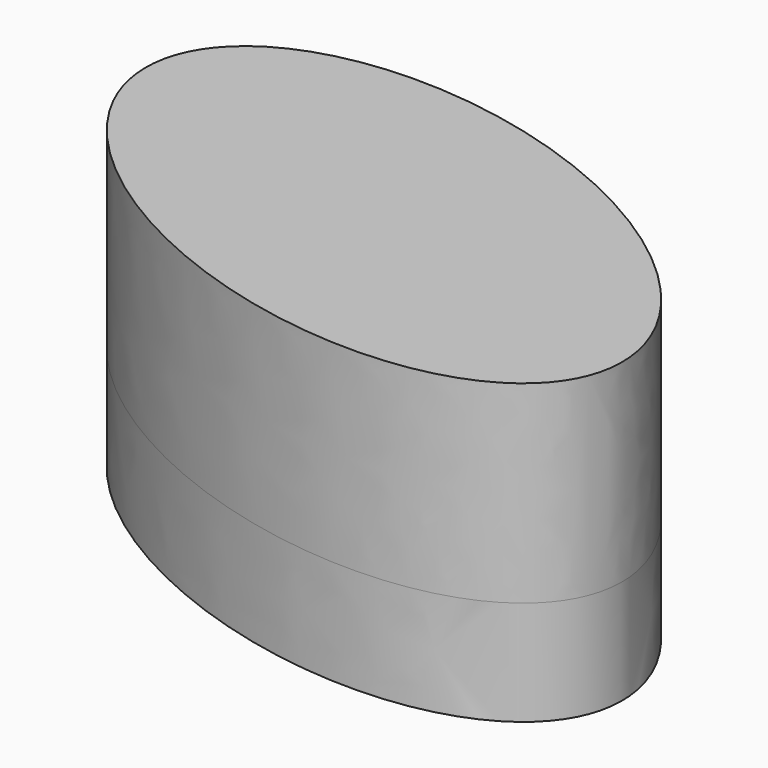
from build123d import *

# Parameters (mm, degrees)
F1_DEPTH = 25.4
F2_DEPTH = 46.99
F3_DEPTH = 51.816
F4_DEPTH = 65.278


with BuildPart() as f1:
    # F0 (on Top) → F1 (new body)
    with BuildSketch(Plane.XY):
        with BuildLine():
            add(Edge.make_bspline(
                [(71.5851932764, -27.3214224726), (96.97739757, 39.2090026506), (-23.0964944914, 46.9259237979), (-143.1703865528, 54.6428449452), (-48.488698785, -19.6045013253), (46.1929889828, -93.8518475958), (71.5851932764, -27.3214224726)],
                knots=[0, 0, 0, 2.0943951024, 2.0943951024, 4.1887902048, 4.1887902048, 6.2831853072, 6.2831853072, 6.2831853072], degree=2, weights=[1, 0.5, 1, 0.5, 1, 0.5, 1]))
        make_face()
    extrude(amount=F1_DEPTH)

    # F2 (add): a face of the model
    f2_faces = [f1.faces().sort_by_distance(p)[0] for p in [
        (0.3060236726, 0.090869864, 25.4),
    ]]
    extrude(f2_faces, amount=F2_DEPTH)

    # F3 (add): a face of the model
    f3_faces = [f1.faces().sort_by_distance(p)[0] for p in [
        (0.3060236726, 0.090869864, 0),
    ]]
    extrude(f3_faces, amount=-F3_DEPTH)

    # F4 (add): a face of the model
    f4_faces = [f1.faces().sort_by_distance(p)[0] for p in [
        (0.3060236726, 0.090869864, 0),
    ]]
    extrude(f4_faces, amount=-F4_DEPTH)


solid = f1.part
